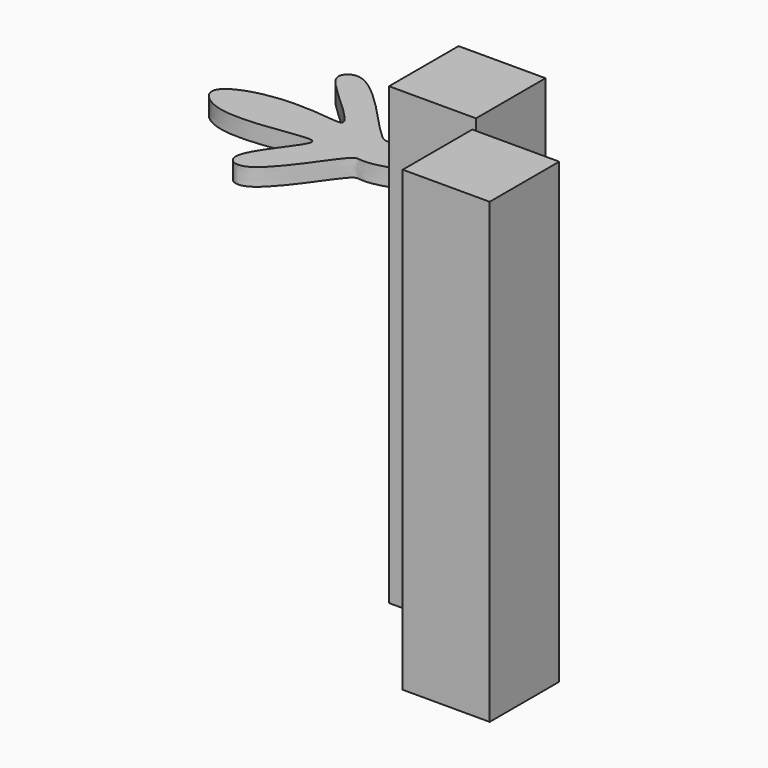
from build123d import *

# Parameters (mm, degrees)
F0_W     = 76.2
F0_H     = 76.2
F1_DEPTH = 398.78
F2_W     = 76.2
F2_H     = 76.2
F3_DEPTH = 401.32
F6_DEPTH = 15.24


with BuildPart() as f1:
    # F0 (on Top) → F1 (new body)
    with BuildSketch(Plane.XY):
        with Locations((-38.1, 41.2172738346)):
            Rectangle(F0_W, F0_H)
    extrude(amount=F1_DEPTH)


with BuildPart() as f3:
    # F2 (on Top) → F3 (new body)
    with BuildSketch(Plane.XY):
        with Locations((49.5322467759, -53.297244833)):
            Rectangle(F2_W, F2_H)
    extrude(amount=F3_DEPTH)


with BuildPart() as f6:
    # F5 (on offset) → F6 (new body)
    with BuildSketch(Plane.XY.offset(304.8)):
        with BuildLine():
            add(Edge.make_bspline(
                [(-230.274990201, 58.117698878), (-211.6771744765, 61.9206850986), (-181.0661800432, 60.4195005486), (-150.2603648206, 55.2073188737), (-196.3699967333, 94.264694567), (-211.7456075772, 112.1407940631), (-188.2215122024, 130.7069004983), (-128.9961377574, 56.0980880879), (-118.3768339335, 56.4848233776), (-97.3699979013, 61.1964079895), (-69.9573123864, 32.3292070703), (-116.6971071004, 21.0322707799), (-125.368345163, 28.9909308015), (-166.3479886589, -44.6729009287), (-200.6953352861, -25.1246191437), (-151.2330986611, 25.3895163062), (-173.3099296624, 27.3893977204), (-239.7289167879, 12.9234900059), (-271.5333005906, 43.4533777387), (-245.2112992792, 55.0634381814), (-230.274990201, 58.117698878)],
                knots=[0, 0, 0, 0, 0.0732464537, 0.1112394409, 0.1799460277, 0.2268461143, 0.2655053609, 0.3589774077, 0.3909896746, 0.4354167273, 0.4848867834, 0.5432707048, 0.5737823399, 0.65926135, 0.7002499918, 0.7740272971, 0.8048885746, 0.8888532207, 0.9411741848, 1, 1, 1, 1], degree=3))
        make_face()
    extrude(amount=F6_DEPTH)


solid = Compound([f1.part, f3.part, f6.part])
